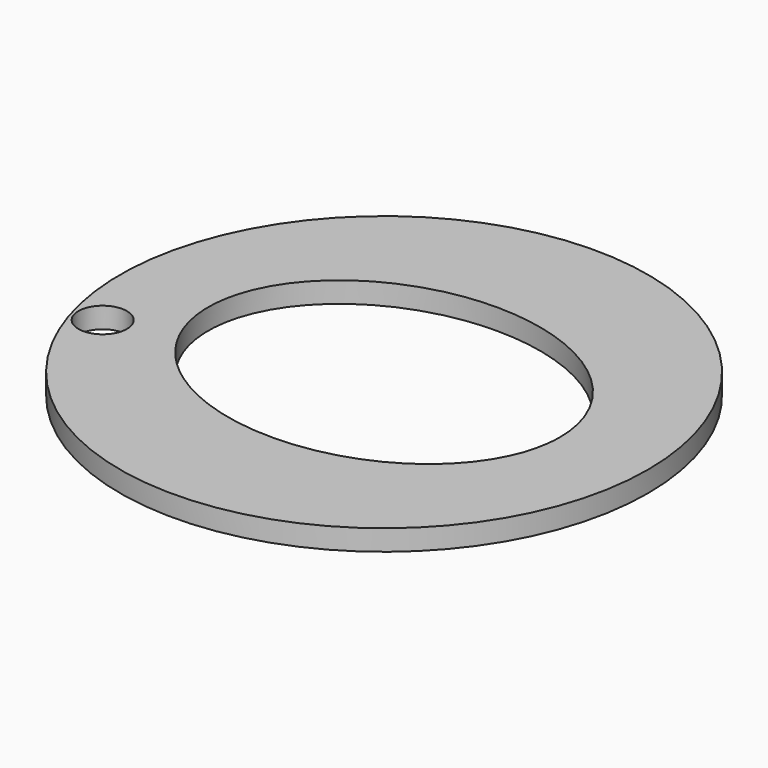
from build123d import *

# Parameters (mm, degrees)
F0_R     = 190.5
F1_DEPTH = 15
F2_R     = 17.5
F3_DEPTH = 53.616541


with BuildPart() as f1:
    # F0 (on Top) → F1 (new body)
    with BuildSketch(Plane.XY):
        Circle(F0_R)
        with BuildLine():
            add(Edge.make_bspline(
                [(127, 0), (127, 175.976362), (-63.5, 87.988181), (-254, 0), (-63.5, -87.988181), (127, -175.976362), (127, 0)],
                knots=[0, 0, 0, 2.094395, 2.094395, 4.18879, 4.18879, 6.283185, 6.283185, 6.283185], degree=2, weights=[1, 0.5, 1, 0.5, 1, 0.5, 1]))
        make_face(mode=Mode.SUBTRACT)
    extrude(amount=F1_DEPTH)

    # F2 (on face) → F3 (cut)
    with BuildSketch(Plane.XY.offset(15)):
        with Locations((-163.611427, -49.374342)):
            Circle(F2_R)
    extrude(amount=-F3_DEPTH, mode=Mode.SUBTRACT)


solid = f1.part
